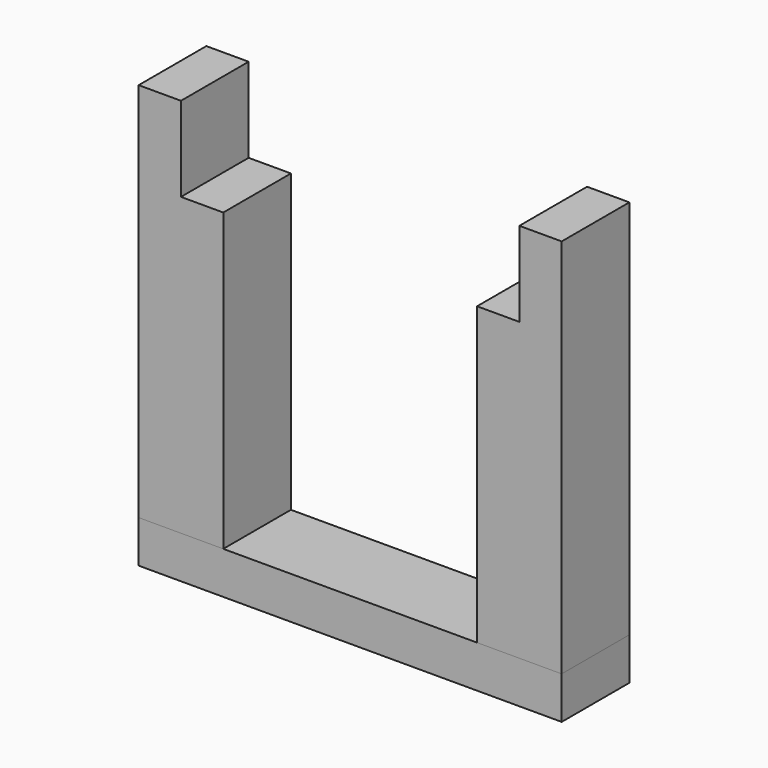
from build123d import *

# Parameters (mm, degrees)
F0_W     = 50.8
F0_H     = 101.6
F1_DEPTH = 457.2
F2_W     = 50.8
F2_H     = 101.6
F3_DEPTH = 355.6
F6_W     = 508
F6_H     = 101.6
F7_DEPTH = 50.8


with BuildPart() as f1:
    # F0 (on Top) → F1 (new body)
    with BuildSketch(Plane.XY):
        with Locations((25.4, 50.8)):
            Rectangle(F0_W, F0_H)
    extrude(amount=F1_DEPTH)

    # F2 (on Top) → F3 (join)
    with BuildSketch(Plane.XY):
        with Locations((76.2, 50.8)):
            Rectangle(F2_W, F2_H)
    extrude(amount=F3_DEPTH)


with BuildPart() as f5_1:
    # F5: instance of F1
    add(f1.part.mirror(Plane(origin=(254, 50.8, 177.8), x_dir=(0, 1, 0), z_dir=(1, 0, 0))))


with BuildPart() as f7:
    # F6 (on Top) → F7 (new body)
    with BuildSketch(Plane.XY):
        with Locations((254, 50.8)):
            Rectangle(F6_W, F6_H)
    extrude(amount=-F7_DEPTH)


solid = Compound([f1.part, f5_1.part, f7.part])
